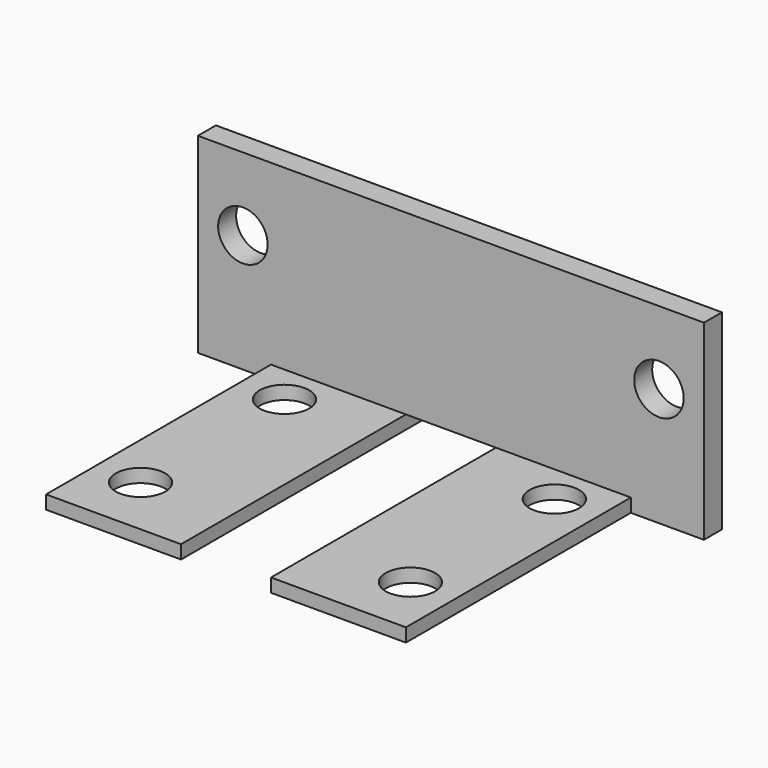
from build123d import *

# Parameters (mm, degrees)
F0_W      = 45
F0_H      = 27
F1_DEPTH  = 17
F2_W      = 25
F2_H      = 15.8
F3_DEPTH  = 45.001
F4_W      = 8
F4_H      = 27
F5_DEPTH  = 1.201
F7_D      = 4.4
F9_D      = 4.4
F10_W     = 6.5
F10_H     = 25
F11_DEPTH = 1.201


with BuildPart() as f1:
    # F0 (on Top) → F1 (new body)
    with BuildSketch(Plane.XY):
        Rectangle(F0_W, F0_H)
    extrude(amount=F1_DEPTH)

    # F2 (on face) → F3 (cut, through all)
    with BuildSketch(Plane.YZ.offset(22.5)):
        with Locations((-1, 9.1)):
            Rectangle(F2_W, F2_H)
    extrude(amount=-F3_DEPTH, mode=Mode.SUBTRACT)

    # F4 (on face) → F5 (cut, through all)
    with BuildSketch(Plane.XY.offset(1.2)):
        Rectangle(F4_W, F4_H)
    extrude(amount=-F5_DEPTH, mode=Mode.SUBTRACT)

    # F7 (through all)
    with Locations(Plane(origin=(0, 0, 0), x_dir=(1, 0, 0), z_dir=(0, 0, -1))):
        with Locations((-12, 8), (12, 8), (12, -8), (-12, -8)):
            Hole(F7_D / 2)

    # F9 (through all)
    with Locations(Plane(origin=(0, 13.5, 0), x_dir=(-1, 0, 0), z_dir=(0, 1, 0))):
        with Locations((18.5, 10.5), (-18.5, 10.5)):
            Hole(F9_D / 2)

    # F10 (on face) → F11 (cut, through all)
    with BuildSketch(Plane.XY.offset(1.2)):
        with Locations((-19.25, -1)):
            Rectangle(F10_W, F10_H)
        with Locations((19.25, -1)):
            Rectangle(F10_W, F10_H)
    extrude(amount=-F11_DEPTH, mode=Mode.SUBTRACT)


solid = f1.part
